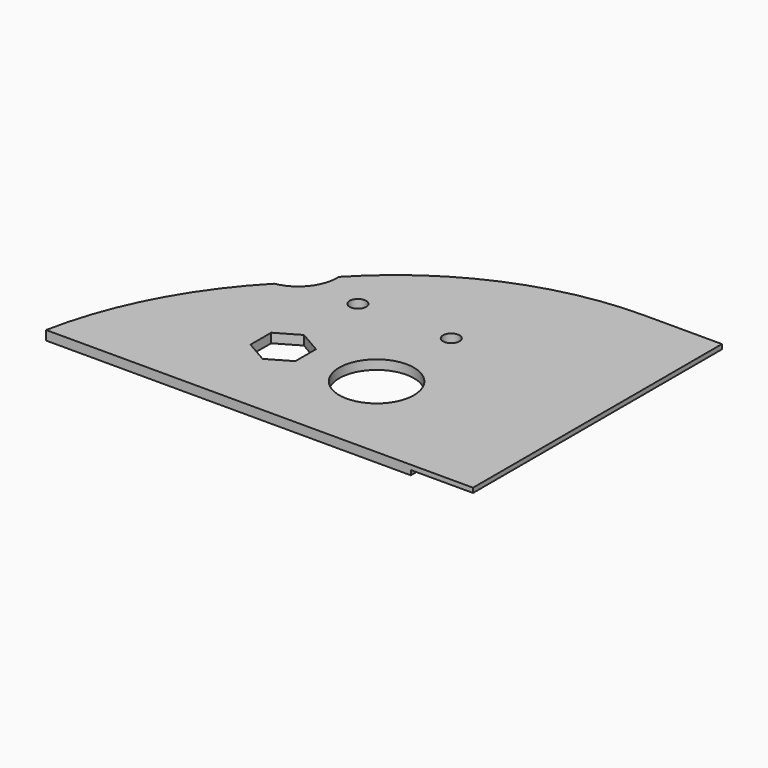
from build123d import *

# Parameters (mm, degrees)
F1_DEPTH  = 3
F3_DEPTH  = 25
F4_R      = 5
F5_R      = 12
F5_R_2    = 2.65
F6_DEPTH  = 25
F7_W      = 78
F7_H      = 55.5
F7_R      = 2
F8_DEPTH  = 25
F9_R      = 8.15
F10_DEPTH = 25
F12_W     = 300.7349916597
F12_H     = 105.2985801398
F13_DEPTH = 25
F14_W     = 20
F14_H     = 100
F15_DEPTH = 1.5
F17_DEPTH = 25
F19_DEPTH = 3


with BuildPart() as f1:
    # F0 (on Top) → F1 (new body)
    with BuildSketch(Plane.XY):
        with BuildLine():
            Line((-197.8147600734, 20.7911690818), (-202.2340594865, 0))
            Line((-202.2340594865, 0), (216.0975214603, 0))
            Line((216.0975214603, 0), (209.2885731253, 20.7911690818))
            ThreePointArc((209.2885731253, 20.7911690818), (167.4870934164, 78.1154778874), (100, 100))
            Line((100, 100), (-100, 100))
            ThreePointArc((-100, 100), (-162.932039105, 77.7145961457), (-197.8147600734, 20.7911690818))
        make_face()
    extrude(amount=F1_DEPTH)

    # F2 (on face) → F3 (cut)
    with BuildSketch(Plane.XY.offset(3)):
        with BuildLine():
            ThreePointArc((1.5842979518, 0), (9.4530988092, 4.1693984068), (12.6, 12.5))
            ThreePointArc((12.6, 12.5), (12.2192388124, 15.5741182224), (11.0999678023, 18.4624420155))
            ThreePointArc((11.0999678023, 18.4624420155), (0, 25.1), (-11.0999678023, 18.4624420155))
            ThreePointArc((-11.0999678023, 18.4624420155), (-11.1999147641, 6.7274867453), (-1.5842979518, 0))
            Line((-1.5842979518, 0), (1.5842979518, 0))
        make_face()
        with BuildLine():
            ThreePointArc((11.0999678023, 18.4624420155), (12.2192388124, 15.5741182224), (12.6, 12.5))
            ThreePointArc((12.6, 12.5), (9.4530988092, 4.1693984068), (1.5842979518, 0))
            Line((1.5842979518, 0), (21.7592636698, 0))
            Line((21.7592636698, 0), (11.0999678023, 18.4624420155))
        make_face()
        with BuildLine():
            ThreePointArc((-1.5842979518, 0), (0, -0.1), (1.5842979518, 0))
            Line((1.5842979518, 0), (-1.5842979518, 0))
        make_face()
        with BuildLine():
            ThreePointArc((-1.5842979518, 0), (-11.1999147641, 6.7274867453), (-11.0999678023, 18.4624420155))
            Line((-11.0999678023, 18.4624420155), (-21.7592636698, 0))
            Line((-21.7592636698, 0), (-1.5842979518, 0))
        make_face()
    extrude(amount=-F3_DEPTH, mode=Mode.SUBTRACT)

    # F4
    f4_edges = [f1.edges().sort_by_distance(p)[0] for p in [
        (-21.759264, 0, 1.5),
        (21.759264, 0, 1.5),
    ]]
    fillet(f4_edges, radius=F4_R)

    # F5 (on face) → F6 (cut)
    with BuildSketch(Plane.XY.offset(3)):
        Polygon((-160, 38.3138438763), (-167.2, 34.1569219382), (-167.2, 25.8430780618), (-160, 21.6861561237), (-152.8, 25.8430780618), (-152.8, 34.1569219382), align=None)
        with Locations((-130, 30)):
            Circle(F5_R)
        with Locations((-130, 60)):
            Circle(F5_R_2)
        with Locations((-160, 60)):
            Circle(F5_R_2)
    extrude(amount=-F6_DEPTH, mode=Mode.SUBTRACT)

    # F7 (on face) → F8 (cut)
    with BuildSketch(Plane.XY.offset(3)):
        with Locations((0, 57.75)):
            Rectangle(F7_W, F7_H)
        with Locations((-42.6313167033, 28.25)):
            Circle(F7_R)
        with Locations((-42.6313167033, 87.25)):
            Circle(F7_R)
        with Locations((42.3686832967, 87.25)):
            Circle(F7_R)
        with Locations((42.3686832967, 28.25)):
            Circle(F7_R)
    extrude(amount=-F8_DEPTH, mode=Mode.SUBTRACT)

    # F9 (on face) → F10 (cut)
    with BuildSketch(Plane.XY.offset(3)):
        with Locations((115, 30)):
            Circle(F9_R)
    extrude(amount=-F10_DEPTH, mode=Mode.SUBTRACT)

    # F12 (on face) → F13 (cut)
    with BuildSketch(Plane.XY.offset(3)):
        with Locations((75.3674958299, 52.6492900699)):
            Rectangle(F12_W, F12_H)
    extrude(amount=-F13_DEPTH, mode=Mode.SUBTRACT)

    # F14 (on face) → F15 (cut)
    with BuildSketch(Plane(origin=(0, 0, 0), x_dir=(1, 0, 0), z_dir=(0, 0, -1))):
        with Locations((-85, -50)):
            Rectangle(F14_W, F14_H)
    extrude(amount=-F15_DEPTH, mode=Mode.SUBTRACT)

    # F16 (on face) → F17 (cut)
    with BuildSketch(Plane.XY.offset(3)):
        with BuildLine():
            ThreePointArc((-183.2262560087, 55.4381665532), (-175.8146533038, 59.7113164576), (-172.8869867134, 67.75))
            ThreePointArc((-172.8869867134, 67.75), (-172.891816845, 68.0974621682), (-172.9063035068, 68.4446558102))
            ThreePointArc((-172.9063035068, 68.4446558102), (-178.3366850582, 62.1559633028), (-183.2262560087, 55.4381665532))
        make_face()
        with BuildLine():
            ThreePointArc((-183.2262560087, 55.4381665532), (-178.3366850582, 62.1559633028), (-172.9063035068, 68.4446558102))
            ThreePointArc((-172.9063035068, 68.4446558102), (-195.1790723457, 75.5194954128), (-183.2262560087, 55.4381665532))
        make_face()
    extrude(amount=-F17_DEPTH, mode=Mode.SUBTRACT)

    # F18 (on face) → F19 (join)
    with BuildSketch(Plane.XY.offset(3)):
        with BuildLine():
            Line((-183.2262560087, 0), (-183.2262560087, 55.4381665532))
            ThreePointArc((-183.2262560087, 55.4381665532), (-201.7549584248, 29.8250444644), (-212.2340594865, 0))
            Line((-212.2340594865, 0), (-183.2262560087, 0))
        make_face()
    extrude(amount=-F19_DEPTH)


solid = f1.part
